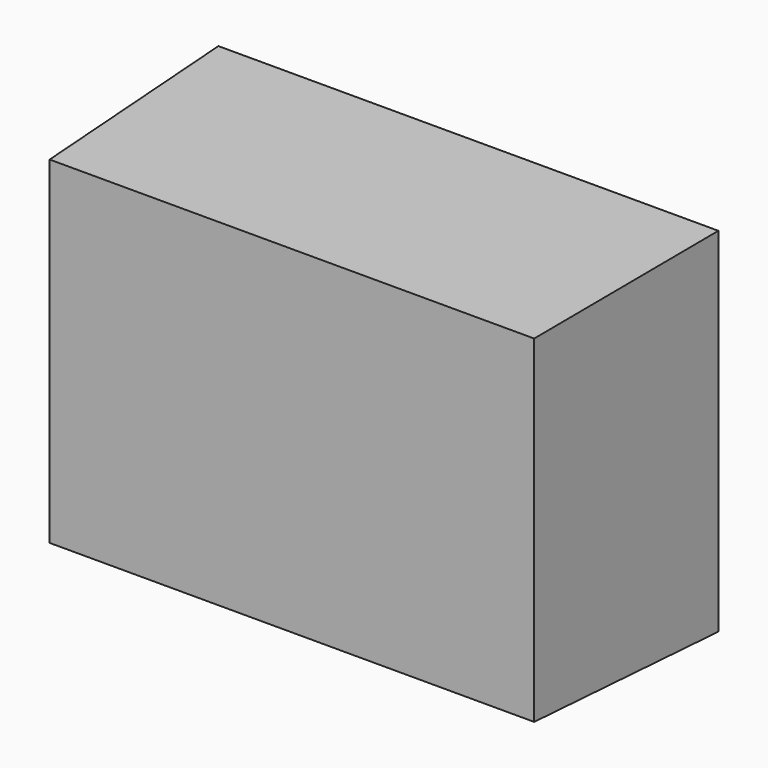
from build123d import *

# Parameters (mm, degrees)
F0_W     = 68
F0_H     = 48
F1_DEPTH = 30
F1_TAPER = 2


with BuildPart() as f1:
    # F0 (on Front) → F1 (new body)
    with BuildSketch(Plane.XZ):
        Rectangle(F0_W, F0_H)
    extrude(amount=F1_DEPTH, taper=F1_TAPER)


solid = f1.part
